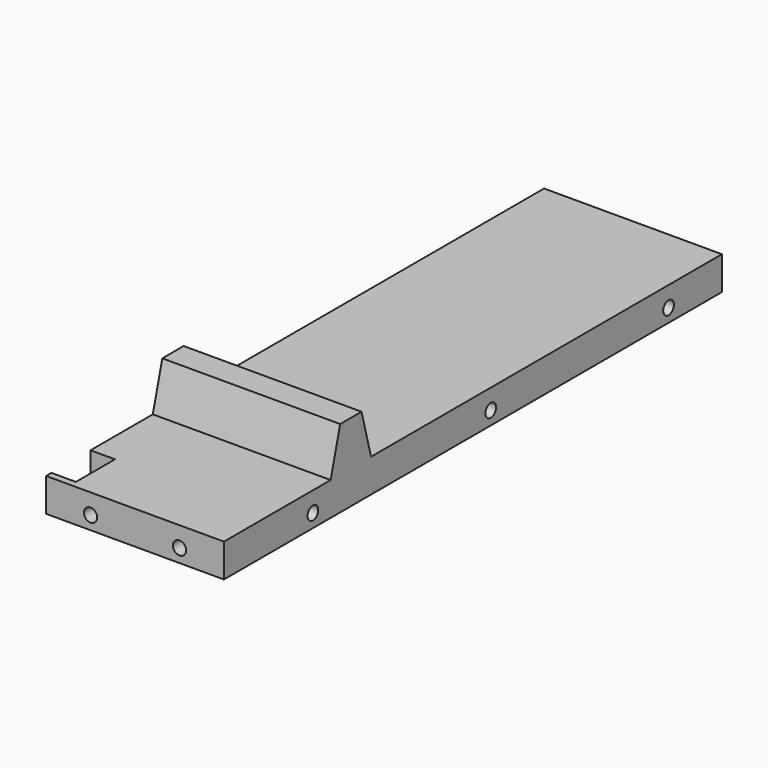
from build123d import *

# Parameters (mm, degrees)
F0_W      = 80
F0_H      = 280
F1_DEPTH  = 15
F3_DEPTH  = 80
F4_W      = 11
F4_H      = 22
F5_DEPTH  = 15
F7_R      = 3
F7_R_2    = 6.556779
F8_DEPTH  = 280.001
F9_R      = 3
F10_DEPTH = 80.001


with BuildPart() as f1:
    # F0 (on Top) → F1 (new body)
    with BuildSketch(Plane.XY):
        with Locations((40, 140)):
            Rectangle(F0_W, F0_H)
    extrude(amount=F1_DEPTH)

    # F2 (on face) → F3 (join)
    with BuildSketch(Plane.YZ.offset(80)):
        Polygon((65.358984, 35), (60, 15), (82.717968, 15), (77.358984, 35), align=None)
    extrude(amount=-F3_DEPTH)

    # F4 (on face) → F5 (cut, through all)
    with BuildSketch(Plane.XY.offset(15)):
        with Locations((5.5, 14)):
            Rectangle(F4_W, F4_H)
    extrude(amount=-F5_DEPTH, mode=Mode.SUBTRACT)

    # F7 (on face) → F8 (cut, through all)
    with BuildSketch(Plane.XZ):
        with Locations((60, 6)):
            Circle(F7_R)
        with Locations((-491.183044, 5.330358)):
            Circle(F7_R_2)
        with Locations((20, 6)):
            Circle(F7_R)
    extrude(amount=-F8_DEPTH, mode=Mode.SUBTRACT)

    # F9 (on face) → F10 (cut, through all)
    with BuildSketch(Plane.YZ.offset(80)):
        with Locations((50, 6)):
            Circle(F9_R)
        with Locations((150, 6)):
            Circle(F9_R)
        with Locations((250, 6)):
            Circle(F9_R)
    extrude(amount=-F10_DEPTH, mode=Mode.SUBTRACT)


solid = f1.part
